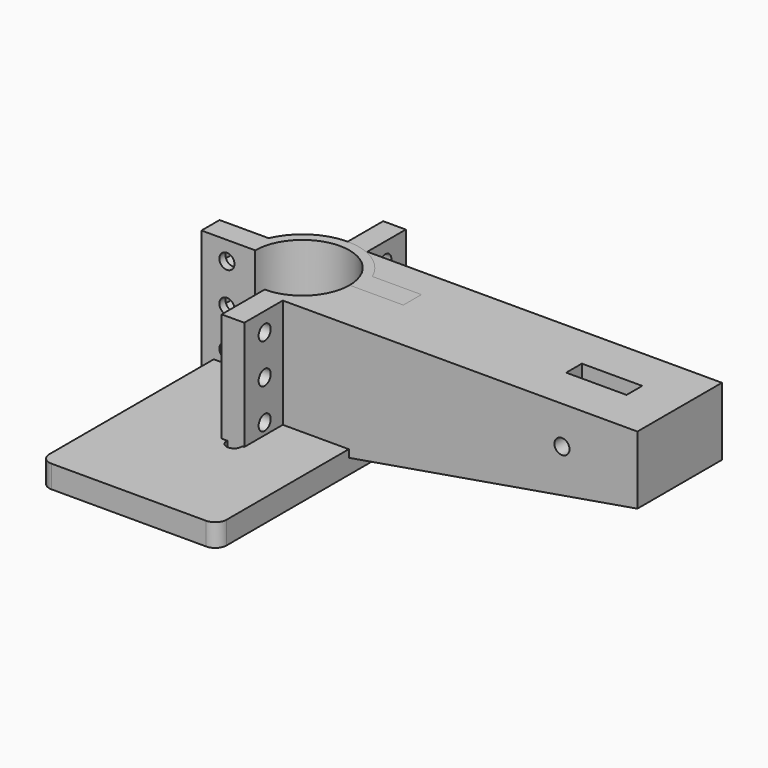
from build123d import *

# Parameters (mm, degrees)
SKETCH_W                  = 28
SKETCH_H                  = 35
SKETCH001_W               = 28
SKETCH001_H               = 18
PAD_DEPTH                 = 35
POCKET_DEPTH              = 35
SKETCH005_R               = 2
POCKET001_DEPTH           = 26.751
POCKET001_DEPTH_BACK      = -26.751
SKETCH006_W               = 16
SKETCH006_H               = 5.2
POCKET002_DEPTH           = 35.001
SKETCH011_R               = 2
POCKET011_DEPTH           = 6.001
LINEARPATTERN_COUNT       = 3
LINEARPATTERN_PITCH       = 10.5
SKETCH003_R               = 2
PAD001_DEPTH              = 6
SKETCH004_R               = 2
PAD002_DEPTH              = 2.49
POCKET012_DEPTH           = 6
FILLET_R                  = 3
PAD004_DEPTH              = 35
SKETCH010_R               = 2
POCKET004_DEPTH           = 4
LINEARPATTERN001_COUNT    = 3
LINEARPATTERN001_PITCH    = 10.5
LINEARPATTERN001_FACE56_R = 2
POCKET005_DEPTH           = 6.001
POCKET005_FACE56_R        = 2
POCKET006_DEPTH           = 6.001
POCKET006_FACE56_R        = 2
POCKET007_DEPTH           = 6.001
POCKET007_FACE59_R        = 2
POCKET008_DEPTH           = 6.001
POCKET008_FACE59_R        = 2
POCKET009_DEPTH           = 6.001
POCKET009_FACE59_R        = 2
POCKET010_DEPTH           = 6.001


with BuildPart() as body_arm:
    # Sketch → AdditiveLoft section 0
    with BuildSketch(Plane.YZ):
        with Locations((0, 17.5)):
            Rectangle(SKETCH_W, SKETCH_H)
    # Sketch001 → AdditiveLoft section 1
    with BuildSketch(Plane.YZ.offset(100)):
        with Locations((0, 26)):
            Rectangle(SKETCH001_W, SKETCH001_H)
    loft()


with BuildPart() as body_arm001:
    # Sketch002 → Pad (new body)
    with BuildSketch(Plane(origin=(0, 0, 0), x_dir=(0, -1, 0), z_dir=(0, 0, 1))):
        with BuildLine():
            ThreePointArc((12.5, 0), (0, 12.5), (-12.5, 0))
            Line((-12.5, 0), (-26.75, 0))
            Line((-26.75, 0), (-26.75, 6))
            Line((-26.75, 6), (-13.747727, 6))
            ThreePointArc((13.747727, 6), (0, 15), (-13.747727, 6))
            Line((13.747727, 6), (26.75, 6))
            Line((26.75, 6), (26.75, 0))
            Line((26.75, 0), (12.5, 0))
        make_face()
    extrude(amount=PAD_DEPTH)

    # Boolean: union Body_Arm
    add(body_arm.part)

    # Boolean Face22 → Pocket (cut)
    with BuildSketch(Plane(origin=(5.305165, 0, 35), x_dir=(0, 1, 0), z_dir=(0, 0, 1))):
        with BuildLine():
            ThreePointArc((-12.5, 5.305165), (0, -7.194835), (12.5, 5.305165))
            Line((12.5, 5.305165), (-12.5, 5.305165))
        make_face()
    extrude(amount=-POCKET_DEPTH, mode=Mode.SUBTRACT)

    # Sketch005 → Pocket001 (cut, two sides)
    with BuildSketch(Plane.XZ) as pocket001_sk:
        with Locations((80, 25)):
            Circle(SKETCH005_R)
    extrude(amount=-POCKET001_DEPTH, mode=Mode.SUBTRACT)
    extrude(pocket001_sk.sketch, amount=-POCKET001_DEPTH_BACK, mode=Mode.SUBTRACT)

    # Sketch006 → Pocket002 (cut, through all)
    with BuildSketch(Plane.XY):
        with Locations((80, 0)):
            Rectangle(SKETCH006_W, SKETCH006_H)
    extrude(amount=POCKET002_DEPTH, mode=Mode.SUBTRACT)

    # Sketch011 → Pocket011 (cut, through all)
    with BuildSketch(Plane.YZ.offset(6)):
        with Locations((-20, 30)):
            Circle(SKETCH011_R)
        with Locations((20, 30)):
            Circle(SKETCH011_R)
    pocket011 = extrude(amount=-POCKET011_DEPTH, mode=Mode.SUBTRACT)

    # LinearPattern: Pocket011 ×3
    with Locations(*[(0, 0, -i * LINEARPATTERN_PITCH) for i in range(1, LINEARPATTERN_COUNT)]):
        add(pocket011, mode=Mode.SUBTRACT)


with BuildPart() as body_top_plate:
    # Sketch003 → Pad001 (new body)
    with BuildSketch(Plane.XY):
        with BuildLine():
            Line((-20.5, 57.5), (20.5, 57.5))
            ThreePointArc((23.5, 54.5), (22.62132, 56.62132), (20.5, 57.5))
            Line((23.5, 54.5), (23.5, -54.5))
            ThreePointArc((20.5, -57.5), (22.62132, -56.62132), (23.5, -54.5))
            Line((20.5, -57.5), (-20.5, -57.5))
            ThreePointArc((-23.5, -54.5), (-22.62132, -56.62132), (-20.5, -57.5))
            Line((-23.5, -54.5), (-23.5, 54.5))
            ThreePointArc((-20.5, 57.5), (-22.62132, 56.62132), (-23.5, 54.5))
        make_face()
        with Locations((-1.5, 22.5)):
            Circle(SKETCH003_R, mode=Mode.SUBTRACT)
        with Locations((3.5, -27)):
            Circle(SKETCH003_R, mode=Mode.SUBTRACT)
    extrude(amount=PAD001_DEPTH)

    # Sketch004 → Pad002 (join, symmetric)
    with BuildSketch(Plane(origin=(0, 0, 6), x_dir=(-1, 0, 0), z_dir=(0, -1, 0))):
        with BuildLine():
            Line((-7.25, 0), (-7.25, -10))
            ThreePointArc((-7.25, -10), (0, -17.25), (7.25, -10))
            Line((7.25, -10), (7.25, 0))
            Line((7.25, 0), (-7.25, 0))
        make_face()
        with Locations((0, -10)):
            Circle(SKETCH004_R, mode=Mode.SUBTRACT)
    extrude(amount=PAD002_DEPTH, both=True)

    # Sketch012 → Pocket012 (cut)
    with BuildSketch(Plane(origin=(0, -1, 0), x_dir=(1, 0, 0), z_dir=(0, 0, 1))):
        with BuildLine():
            Line((-25.37, 59.32), (-5.94, 59.32))
            Line((-5.94, 59.32), (-5.94, 21.207068))
            ThreePointArc((-7.497068, 19.65), (-6.396055, 20.106055), (-5.94, 21.207068))
            Line((-7.497068, 19.65), (-23.59, 19.65))
            ThreePointArc((-25.37, 21.43), (-24.84865, 20.17135), (-23.59, 19.65))
            Line((-25.37, 21.43), (-25.37, 59.32))
        make_face()
    extrude(amount=POCKET012_DEPTH, mode=Mode.SUBTRACT)

    # Fillet
    fillet_edges = [body_top_plate.edges().sort_by_distance(p)[0] for p in [
        (-5.94, 57.5, 3),
        (-23.5, 18.65, 3),
    ]]
    fillet(fillet_edges, radius=FILLET_R)


with BuildPart() as body_single_clamp_revamp:
    # Sketch009 → Pad004 (new body)
    with BuildSketch(Plane.XY):
        with BuildLine():
            ThreePointArc((12.5, 0), (0, 12.5), (-12.5, 0))
            Line((-12.5, 0), (-26.75, 0))
            Line((-26.75, 0), (-26.75, 6))
            Line((-26.75, 6), (-13.747727, 6))
            ThreePointArc((13.747727, 6), (0, 15), (-13.747727, 6))
            Line((13.747727, 6), (26.75, 6))
            Line((26.75, 6), (26.75, 0))
            Line((26.75, 0), (12.5, 0))
        make_face()
    extrude(amount=PAD004_DEPTH)

    # Sketch010 → Pocket004 (cut)
    with BuildSketch(Plane.XZ.offset(-6)):
        Polygon((-16.59652, 28.035), (-16.59652, 31.965), (-20, 33.93), (-23.40348, 31.965), (-23.40348, 28.035), (-20, 26.07), align=None)
        with Locations((-20, 30)):
            Circle(SKETCH010_R, mode=Mode.SUBTRACT)
        Polygon((23.40348, 28.035), (23.40348, 31.965), (20, 33.93), (16.59652, 31.965), (16.59652, 28.035), (20, 26.07), align=None)
        with Locations((20, 30)):
            Circle(SKETCH010_R, mode=Mode.SUBTRACT)
    pocket004 = extrude(amount=POCKET004_DEPTH, mode=Mode.SUBTRACT)

    # LinearPattern001: Pocket004 ×3
    with Locations(*[(0, 0, -i * LINEARPATTERN001_PITCH) for i in range(1, LINEARPATTERN001_COUNT)]):
        add(pocket004, mode=Mode.SUBTRACT)

    # LinearPattern001 Face56 → Pocket005 (cut, through all)
    with BuildSketch(Plane(origin=(20, 6, 30), x_dir=(1, 0, 0), z_dir=(0, 1, 0))):
        Circle(LINEARPATTERN001_FACE56_R)
    extrude(amount=-POCKET005_DEPTH, mode=Mode.SUBTRACT)

    # Pocket005 Face56 → Pocket006 (cut, through all)
    with BuildSketch(Plane(origin=(20, 6, 19.5), x_dir=(1, 0, 0), z_dir=(0, 1, 0))):
        Circle(POCKET005_FACE56_R)
    extrude(amount=-POCKET006_DEPTH, mode=Mode.SUBTRACT)

    # Pocket006 Face56 → Pocket007 (cut, through all)
    with BuildSketch(Plane(origin=(20, 6, 9), x_dir=(1, 0, 0), z_dir=(0, 1, 0))):
        Circle(POCKET006_FACE56_R)
    extrude(amount=-POCKET007_DEPTH, mode=Mode.SUBTRACT)

    # Pocket007 Face59 → Pocket008 (cut, through all)
    with BuildSketch(Plane(origin=(-20, 6, 30), x_dir=(1, 0, 0), z_dir=(0, 1, 0))):
        Circle(POCKET007_FACE59_R)
    extrude(amount=-POCKET008_DEPTH, mode=Mode.SUBTRACT)

    # Pocket008 Face59 → Pocket009 (cut, through all)
    with BuildSketch(Plane(origin=(-20, 6, 19.5), x_dir=(1, 0, 0), z_dir=(0, 1, 0))):
        Circle(POCKET008_FACE59_R)
    extrude(amount=-POCKET009_DEPTH, mode=Mode.SUBTRACT)

    # Pocket009 Face59 → Pocket010 (cut, through all)
    with BuildSketch(Plane(origin=(-20, 6, 9), x_dir=(1, 0, 0), z_dir=(0, 1, 0))):
        Circle(POCKET009_FACE59_R)
    extrude(amount=-POCKET010_DEPTH, mode=Mode.SUBTRACT)


solid = Compound([body_arm001.part, body_top_plate.part, body_single_clamp_revamp.part])
